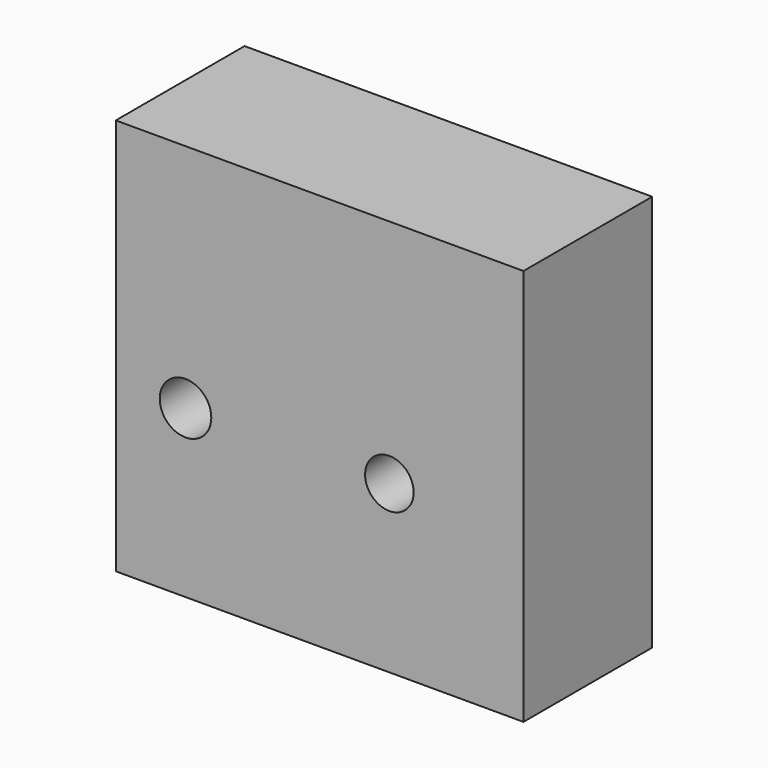
from build123d import *

# Parameters (mm, degrees)
F0_W     = 38
F0_H     = 15
F1_DEPTH = 37
F2_R     = 2.403074
F2_R_2   = 2.262572
F3_DEPTH = 15.001


with BuildPart() as f1:
    # F0 (on Top) → F1 (new body)
    with BuildSketch(Plane.XY):
        with Locations((19, -7.5)):
            Rectangle(F0_W, F0_H)
    extrude(amount=F1_DEPTH)

    # F2 (on face) → F3 (cut, through all)
    with BuildSketch(Plane.XZ.offset(15)):
        with Locations((6.5, 15.5)):
            Circle(F2_R)
        with Locations((25.5, 15.5)):
            Circle(F2_R_2)
    extrude(amount=-F3_DEPTH, mode=Mode.SUBTRACT)


solid = f1.part
